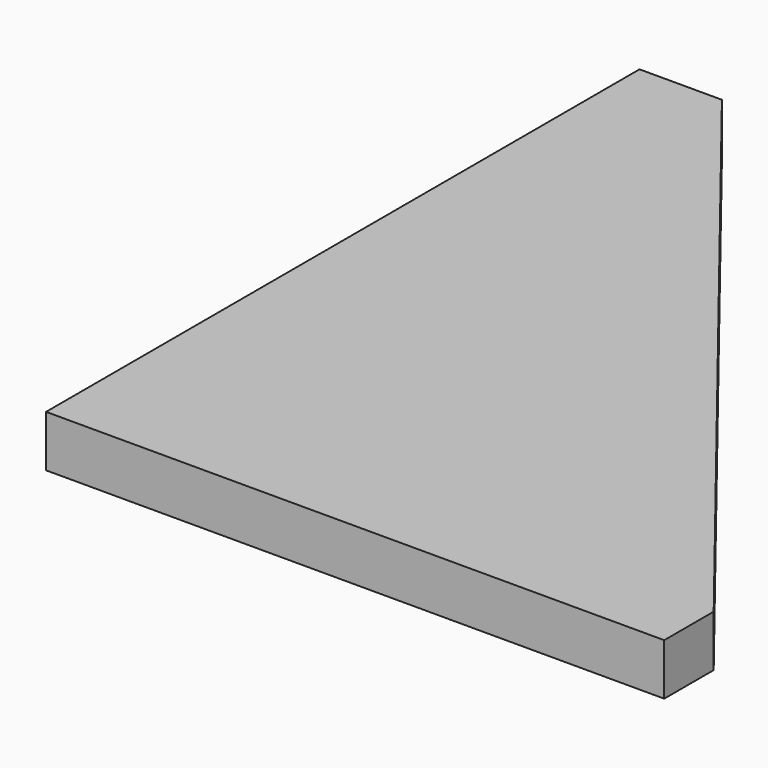
from build123d import *

# Parameters (mm, degrees)
F1_DEPTH = 25


with BuildPart() as f1:
    # F0 (on Top) → F1 (new body)
    with BuildSketch(Plane.XY):
        Polygon((0, 0), (20, 0), (40, 0), (40, 297.683151), (40, 330), (0, 330), align=None)
        Polygon((40, 297.683151), (40, 0), (274.538241, 0), align=None)
        Polygon((40, 0), (20, 0), (0, 0), (0, -30), (300, -30), (300, 0), (274.538241, 0), align=None)
        Polygon((40, 297.683151), (274.538241, 0), (300, 0), (40, 330), align=None)
    extrude(amount=F1_DEPTH)


solid = f1.part
